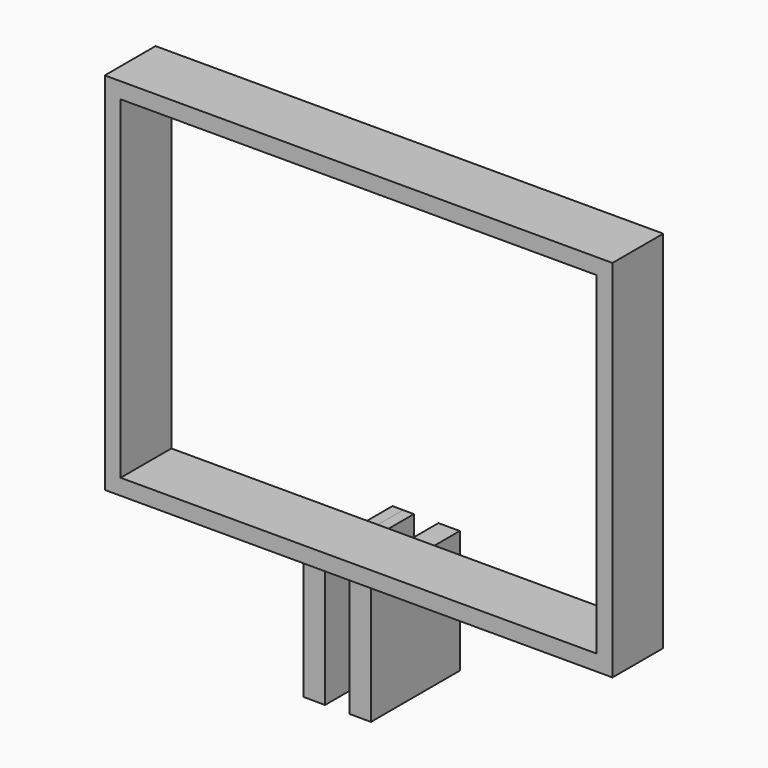
from build123d import *

# Parameters (mm, degrees)
F1_DEPTH      = 8
F2_DEPTH      = 7
F2_DEPTH_BACK = 7


with BuildPart() as f1:
    # F0 (on Front) → F1 (new body)
    with BuildSketch(Plane.XZ):
        Polygon((30, 21), (30, -21), (0.756938591, -21), (0.756938591, -23), (32, -23), (32, -7.5), (32, 23), (-32, 23), (-32, -7.4891864034), (-32, -23), (-7.7329747899, -23), (-7.7329747899, -22.9891864034), (-7.7329747899, -21), (-30, -21), (-30, 21), align=None)
        Polygon((30, 21), (30, -21), (0.756938591, -21), (0.756938591, -23), (32, -23), (32, -7.5), (32, 23), (-32, 23), (-32, -7.4891864034), (-32, -23), (-7.7329747899, -23), (-7.7329747899, -22.9891864034), (-7.7329747899, -21), (-30, -21), (-30, 21), align=None)
        Polygon((30, 21), (30, -21), (0.756938591, -21), (0.756938591, -23), (32, -23), (32, -7.5), (32, 23), (-32, 23), (-32, -7.4891864034), (-32, -23), (-7.7329747899, -23), (-7.7329747899, -22.9891864034), (-7.7329747899, -21), (-30, -21), (-30, 21), align=None)
        Polygon((0.756938591, -23), (0.756938591, -21), (-7.7329747899, -21), (-7.7329747899, -22.9891864034), (-6.3830180995, -23), align=None)
    extrude(amount=F1_DEPTH)


with BuildPart() as f2:
    # F0 (on Front) → F2 (new body, two sides)
    with BuildSketch(Plane.XZ) as f2_sk:
        Polygon((-5.033061409, -23.0108135966), (-6.3830180995, -23), (-7.7329747899, -23), (-7.7329747899, -38.4891864034), (-5.033061409, -38.5108135966), align=None)
    extrude(amount=F2_DEPTH)
    extrude(f2_sk.sketch, amount=-F2_DEPTH_BACK)


with BuildPart() as f2b:
    # F0 (on Front) → F2, piece 2 (new body, two sides)
    with BuildSketch(Plane.XZ) as f2_2_sk:
        Polygon((0.756938591, -38.5), (0.756938591, -23), (-1.943061409, -23.0050426098), (-1.943061409, -38.5), align=None)
    extrude(amount=F2_DEPTH)
    extrude(f2_2_sk.sketch, amount=-F2_DEPTH_BACK)


solid = Compound([f1.part, f2.part, f2b.part])
